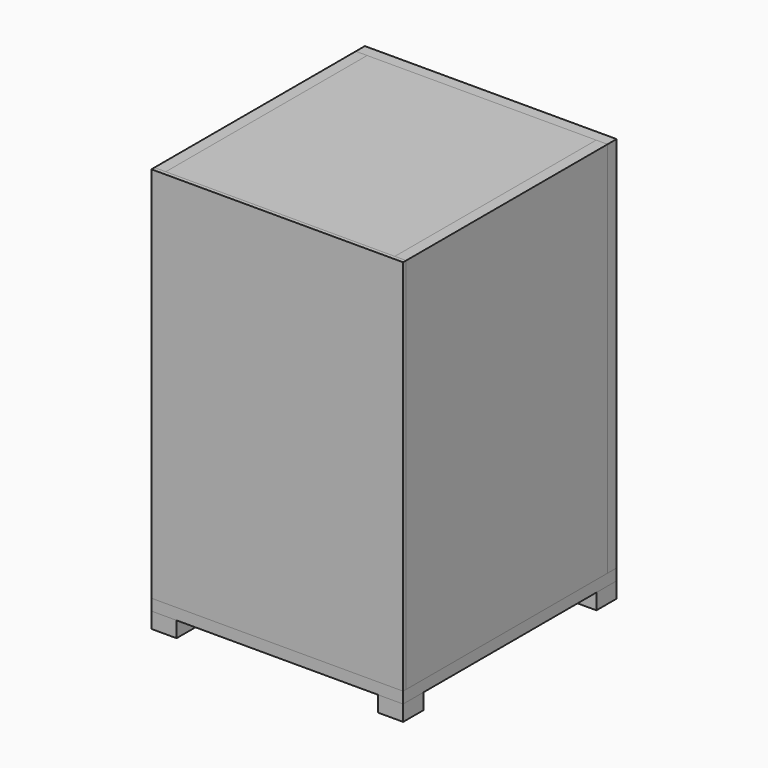
from build123d import *

# Parameters (mm, degrees)
F0_W      = 200
F0_H      = 300
F1_DEPTH  = 1.5
F2_DEPTH  = 1.5
F3_W      = 9
F3_H      = 300
F4_DEPTH  = 200
F6_DEPTH  = 12
F8_DEPTH  = 182
F9_W      = 26.0420143604
F9_H      = 13.1397843487
F10_DEPTH = 5
F11_W     = 200
F11_H     = 9
F12_DEPTH = 182
F13_W     = 200
F13_H     = 300
F14_DEPTH = 9
F15_W     = 200
F15_H     = 300
F16_DEPTH = 9
F17_R     = 35.2290412764
F18_DEPTH = 9
F19_W     = 200
F19_H     = 212
F20_DEPTH = 9
F21_W     = 20
F21_H     = 20
F22_DEPTH = 12.5
F23_W     = 20
F23_H     = 20
F24_DEPTH = 12.5
F25_W     = 20
F25_H     = 20
F26_DEPTH = 12.5
F27_W     = 20
F27_H     = 20
F28_DEPTH = 12.5


with BuildPart() as f1:
    # F0 (on Front) → F1 (new body)
    with BuildSketch(Plane.XZ):
        with Locations((100, 150)):
            Rectangle(F0_W, F0_H)
    extrude(amount=F1_DEPTH)

    # F2 (add): a face of the model
    f2_faces = [f1.faces().sort_by_distance(p)[0] for p in [
        (100, -1.5, 150),
    ]]
    extrude(f2_faces, amount=F2_DEPTH)


with BuildPart() as f4:
    # F3 (on face) → F4 (new body)
    with BuildSketch(Plane(origin=(0, 0, 0), x_dir=(-1, 0, 0), z_dir=(0, 1, 0))):
        with Locations((-4.5, 150)):
            Rectangle(F3_W, F3_H)
    extrude(amount=F4_DEPTH)


with BuildPart() as f6:
    # F5 (on face) → F6 (new body)
    with BuildSketch(Plane.YZ.offset(9)):
        Polygon((21.2234966457, 125.7177591324), (0, 145.660340786), (0, 108.5578650236), align=None)
    extrude(amount=F6_DEPTH)


with BuildPart() as f8:
    # F7 (on face) → F8 (new body)
    with BuildSketch(Plane.YZ.offset(9)):
        Polygon((0, 145.660340786), (21.2234966457, 125.7177591324), (23.7052597113, 128.3589262096), (2.4817630656, 148.3015078632), align=None)
    extrude(amount=F8_DEPTH)


with BuildPart() as f10:
    # F9 (on face) → F10 (new body)
    with BuildSketch(Plane(origin=(0, 75.1710426471, 79.9992899207), x_dir=(1, 0, 0), z_dir=(0, 0.6847731802, 0.7287562636))):
        with Locations((98.4255000949, -77.1912857827)):
            Rectangle(F9_W, F9_H)
    extrude(amount=F10_DEPTH)


with BuildPart() as f12:
    # F11 (on face) → F12 (new body)
    with BuildSketch(Plane.YZ.offset(9)):
        with Locations((100, 295.5)):
            Rectangle(F11_W, F11_H)
    extrude(amount=F12_DEPTH)


with BuildPart() as f14:
    # F13 (on face) → F14 (new body)
    with BuildSketch(Plane.YZ.offset(191)):
        with Locations((100, 150)):
            Rectangle(F13_W, F13_H)
    extrude(amount=F14_DEPTH)


with BuildPart() as f16:
    # F15 (on face) → F16 (new body)
    with BuildSketch(Plane(origin=(0, 200, 0), x_dir=(-1, 0, 0), z_dir=(0, 1, 0))):
        with Locations((-100, 150)):
            Rectangle(F15_W, F15_H)
    extrude(amount=F16_DEPTH)

    # F17 (on face) → F18 (cut)
    with BuildSketch(Plane(origin=(0, 209, 0), x_dir=(-1, 0, 0), z_dir=(0, 1, 0))):
        with Locations((-97.2835719585, 61.2522102892)):
            Circle(F17_R)
    extrude(amount=-F18_DEPTH, mode=Mode.SUBTRACT)


with BuildPart() as f20:
    # F19 (on face) → F20 (new body)
    with BuildSketch(Plane(origin=(0, 0, 0), x_dir=(1, 0, 0), z_dir=(0, 0, -1))):
        with Locations((100, -103)):
            Rectangle(F19_W, F19_H)
    extrude(amount=F20_DEPTH)


with BuildPart() as f22:
    # F21 (on face) → F22 (new body)
    with BuildSketch(Plane(origin=(0, 0, -9), x_dir=(1, 0, 0), z_dir=(0, 0, -1))):
        with Locations((10, -7)):
            Rectangle(F21_W, F21_H)
    extrude(amount=F22_DEPTH)


with BuildPart() as f24:
    # F23 (on face) → F24 (new body)
    with BuildSketch(Plane(origin=(0, 0, -9), x_dir=(1, 0, 0), z_dir=(0, 0, -1))):
        with Locations((190, -7)):
            Rectangle(F23_W, F23_H)
    extrude(amount=F24_DEPTH)


with BuildPart() as f26:
    # F25 (on face) → F26 (new body)
    with BuildSketch(Plane(origin=(0, 0, -9), x_dir=(1, 0, 0), z_dir=(0, 0, -1))):
        with Locations((190, -199)):
            Rectangle(F25_W, F25_H)
    extrude(amount=F26_DEPTH)


with BuildPart() as f28:
    # F27 (on face) → F28 (new body)
    with BuildSketch(Plane(origin=(0, 0, -9), x_dir=(1, 0, 0), z_dir=(0, 0, -1))):
        with Locations((10, -199)):
            Rectangle(F27_W, F27_H)
    extrude(amount=F28_DEPTH)


solid = Compound([f1.part, f4.part, f6.part, f8.part, f10.part, f12.part, f14.part, f16.part, f20.part, f22.part, f24.part, f26.part, f28.part])
